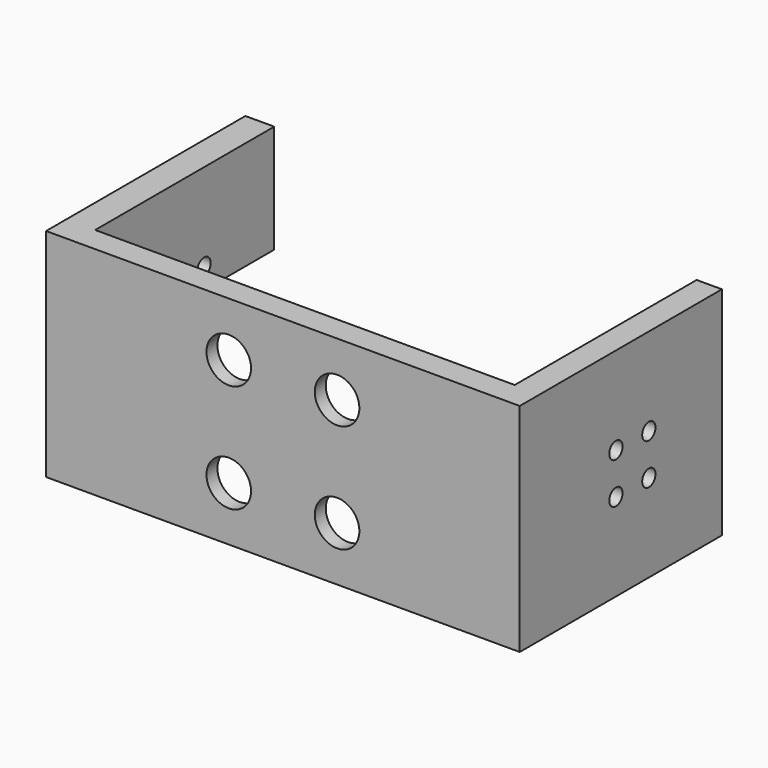
from build123d import *

# Parameters (mm, degrees)
F0_W      = 65.6
F0_H      = 30
F1_DEPTH  = 1.75
F2_W      = 3.5
F2_H      = 31.5
F3_DEPTH  = 15
F4_W      = 4
F4_H      = 31
F5_DEPTH  = 15
F6_R      = 1.15
F7_DEPTH  = 200
F8_R      = 3.0875
F9_DEPTH  = 25
F10_R     = 5.9215
F11_DEPTH = 1.6


with BuildPart() as f1:
    # F0 (on Front) → F1 (new body, symmetric)
    with BuildSketch(Plane.XZ):
        Rectangle(F0_W, F0_H)
    extrude(amount=F1_DEPTH, both=True)

    # F2 (on Top) → F3 (join, symmetric)
    with BuildSketch(Plane.XY):
        with Locations((31.05, 17.5)):
            Rectangle(F2_W, F2_H)
    extrude(amount=F3_DEPTH, both=True)

    # F4 (on Top) → F5 (join)
    with BuildSketch(Plane.XY):
        with Locations((-30.8, 17.25)):
            Rectangle(F4_W, F4_H)
    extrude(amount=F5_DEPTH)

    # F6 (on face) → F7 (cut)
    with BuildSketch(Plane.YZ.offset(32.8)):
        with Locations((14.9, 2.85)):
            Circle(F6_R)
        with Locations((20.6, 2.85)):
            Circle(F6_R)
        with Locations((14.9, -2.85)):
            Circle(F6_R)
        with Locations((20.6, -2.85)):
            Circle(F6_R)
    extrude(amount=-F7_DEPTH, mode=Mode.SUBTRACT)

    # F8 (on face) → F9 (cut)
    with BuildSketch(Plane(origin=(0, 1.75, 0), x_dir=(-1, 0, 0), z_dir=(0, 1, 0))):
        with Locations((-7.5, 7.5)):
            Circle(F8_R)
        with Locations((-7.5, -7.5)):
            Circle(F8_R)
        with Locations((7.5, 7.5)):
            Circle(F8_R)
        with Locations((7.5, -7.5)):
            Circle(F8_R)
    extrude(amount=-F9_DEPTH, mode=Mode.SUBTRACT)

    # F10 (on face) → F11 (cut)
    with BuildSketch(Plane(origin=(0, 1.75, 0), x_dir=(-1, 0, 0), z_dir=(0, 1, 0))):
        with Locations((-7.5, 7.5)):
            Circle(F10_R)
        with Locations((-7.5, -7.5)):
            Circle(F10_R)
        with Locations((7.5, -7.5)):
            Circle(F10_R)
        with Locations((7.5, 7.5)):
            Circle(F10_R)
    extrude(amount=-F11_DEPTH, mode=Mode.SUBTRACT)


solid = f1.part
